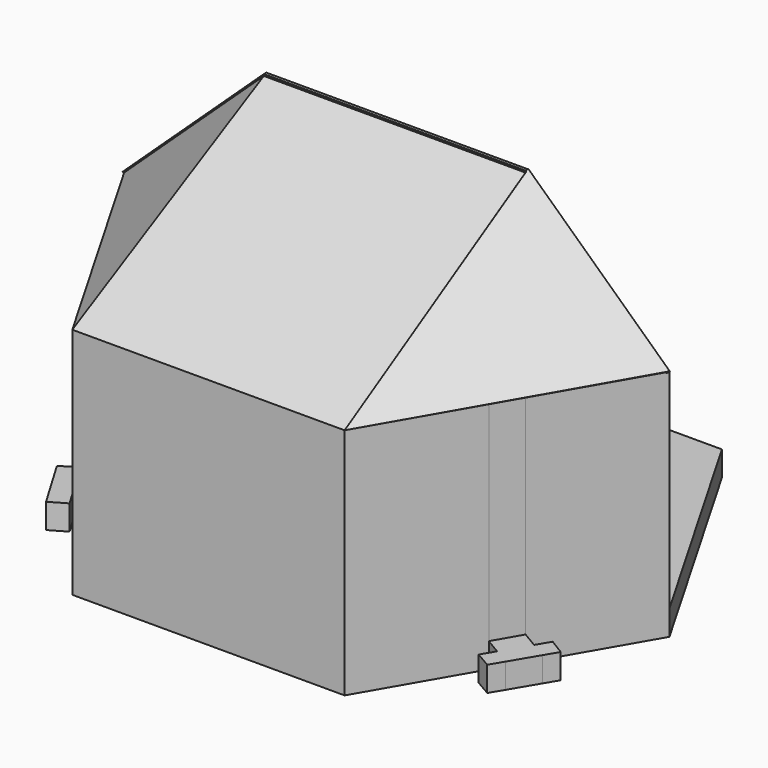
from build123d import *

# Parameters (mm, degrees)
F0_W      = 50
F0_H      = 12.5
F1_DEPTH  = 8
F2_DEPTH  = 75
F4_DEPTH  = 8
F7_DEPTH  = 3
F8_DEPTH  = 1
F11_DEPTH = 3
F14_DEPTH = 3
F15_DEPTH = 8
F16_DEPTH = 8
F17_DEPTH = 12.5


with BuildPart() as f1:
    # F0 (on Top) → F1 (new body)
    with BuildSketch(Plane.XY):
        Polygon((42.017949, -72.777223), (84.035898, 0), (42.017949, 72.777223), (-42.017949, 72.777223), (-84.035898, 0), (-42.017949, -72.777223), align=None)
        with Locations((0, 54.582917)):
            Rectangle(F0_W, F0_H, mode=Mode.SUBTRACT)
    extrude(amount=F1_DEPTH)

    # F0 (on Top) → F2 (join)
    with BuildSketch(Plane.XY):
        Polygon((68.124673, -33.55905), (87.5, 0), (84.035898, 0), (42.017949, -72.777223), (-42.017949, -72.777223), (-84.035898, 0), (-87.5, 0), (-68.124673, -33.55905), (-63.174512, -42.132981), (-43.75, -75.777223), (43.75, -75.777223), (63.174512, -42.132981), align=None)
    extrude(amount=F2_DEPTH)

    # F0 (on Top) → F4 (join)
    with BuildSketch(Plane.XY):
        Polygon((43.75, 75.777223), (-43.75, 75.777223), (-65.625, 37.888611), (-68.125, 33.558484), (-87.5, 0), (-84.035898, 0), (-42.017949, 72.777223), (42.017949, 72.777223), (84.035898, 0), (87.5, 0), align=None)
    extrude(amount=F4_DEPTH)

    # F6 (on face) → F7 (join)
    with BuildSketch(Plane(origin=(0, -50.131237, 89.383668), x_dir=(1, 0, 0), z_dir=(0, 0.489171, -0.872188))):
        Polygon((43.75, 29.404192), (0, 29.404192), (-43.75, 29.404192), (-42.01795, -57.477552), (42.01795, -57.477552), align=None)
    extrude(amount=F7_DEPTH)

    # F3 (on Front) → F8 (join)
    with BuildSketch(Plane.XZ):
        Polygon((-42.01795, 114.5), (0, 114.5), (42.01795, 114.5), (84.0359, 75), (87.5, 75), (42.01795, 117.5), (0, 117.5), (-42.01795, 117.5), (-87.5, 75), (-84.0359, 75), align=None)
    extrude(amount=F8_DEPTH)

    # F10 (on face) → F11 (join)
    with BuildSketch(Plane(origin=(-67.684673, -39.077764, 72.433827), x_dir=(0.772363, -0.301588, 0.559017), z_dir=(-0.635181, -0.366722, 0.67975))):
        Polygon((33.231426, 55.789645), (-25.65546, 35.610412), (30.988892, -31.080422), align=None)
    extrude(amount=-F11_DEPTH)

    # F13 (on face) → F14 (join)
    with BuildSketch(Plane(origin=(67.675669, -39.595085, 72.424192), x_dir=(0.773305, 0.304147, -0.556322), z_dir=(-0.634035, 0.370955, -0.678522))):
        Polygon((-30.93951, 30.511739), (-32.875165, -56.364915), (25.940007, -35.977606), align=None)
    extrude(amount=F14_DEPTH)

    # F0 (on Top) → F15 (join)
    with BuildSketch(Plane.XY):
        with Locations((0, 54.582917)):
            Rectangle(F0_W, F0_H)
    extrude(amount=F15_DEPTH)

    # F0 (on Top) → F16 (join)
    with BuildSketch(Plane.XY):
        Polygon((-78.447809, -39.67729), (-73.329958, -36.64408), (-75.878554, -32.343907), (-80.946091, -35.46201), align=None)
        Polygon((-63.174512, -42.132981), (-68.124673, -33.55905), (-73.329958, -36.64408), (-78.447809, -39.67729), (-73.398516, -48.192843), (-68.261641, -45.14817), align=None)
        Polygon((-65.73638, -49.405581), (-68.261641, -45.14817), (-73.398516, -48.192843), (-70.880193, -52.396181), align=None)
        Polygon((75.878554, -32.343907), (73.329958, -36.64408), (78.447809, -39.67729), (80.946091, -35.46201), align=None)
        Polygon((73.329958, -36.64408), (68.124673, -33.55905), (63.174512, -42.132981), (68.261641, -45.14817), (73.398516, -48.192843), (78.447809, -39.67729), align=None)
        Polygon((73.398516, -48.192843), (68.261641, -45.14817), (65.73638, -49.405581), (70.880193, -52.396181), align=None)
    extrude(amount=F16_DEPTH)

    # F0 (on Top) → F17 (cut, symmetric)
    with BuildSketch(Plane.XY):
        with Locations((0, 54.582917)):
            Rectangle(F0_W, F0_H)
    extrude(amount=F17_DEPTH, both=True, mode=Mode.SUBTRACT)


solid = f1.part
